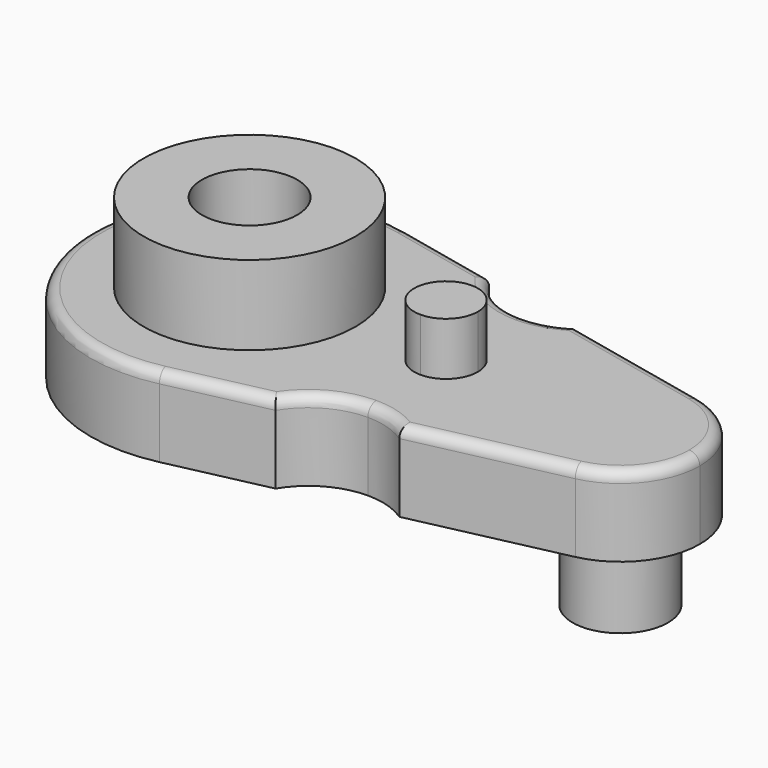
from build123d import *

# Parameters (mm, degrees)
F0_R     = 20
F0_R_2   = 9
F1_DEPTH = 15
F2_DEPTH = 15
F3_DEPTH = 30
F4_R     = 2
F5_DEPTH = 25


with BuildPart() as f1:
    # F0 (on Top) → F1 (new body)
    with BuildSketch(Plane.XY):
        with BuildLine():
            ThreePointArc((-47.0013516621, -29.3031307097), (-30.0541114165, -18.8034951158), (-23.4299230907, 0))
            ThreePointArc((-23.4299230907, 0), (-30.0541114165, 18.8034951158), (-47.0013516621, 29.3031307097))
            ThreePointArc((-47.0013516621, 29.3031307097), (-83.4299230907, 0), (-47.0013516621, -29.3031307097))
        make_face()
        with Locations((-53.4299230907, 0)):
            Circle(F0_R, mode=Mode.SUBTRACT)
        with Locations((-53.4299230907, 0)):
            Circle(F0_R)
        with Locations((-53.4299230907, 0)):
            Circle(F0_R_2, mode=Mode.SUBTRACT)
        with BuildLine():
            ThreePointArc((-47.0013516621, 29.3031307097), (-30.0541114165, 18.8034951158), (-23.4299230907, 0))
            ThreePointArc((-23.4299230907, 0), (-30.0541114165, -18.8034951158), (-47.0013516621, -29.3031307097))
            Line((-47.0013516621, -29.3031307097), (-28.3632161226, -25.2142643425))
            ThreePointArc((-28.3632161226, -25.2142643425), (-23.240927988, -20.2532308731), (-16.3432708876, -18.4443595833))
            Line((-16.3432708876, -18.4443595833), (-16.3432708876, -6))
            ThreePointArc((-16.3432708876, -6), (-22.3432708876, 0), (-16.3432708876, 6))
            Line((-16.3432708876, 6), (-16.3432708876, 18.4443595833))
            ThreePointArc((-16.3432708876, 18.4443595833), (-23.240927988, 20.2532308731), (-28.3632161226, 25.2142643425))
            Line((-28.3632161226, 25.2142643425), (-47.0013516621, 29.3031307097))
        make_face()
        with BuildLine():
            ThreePointArc((-8.4771248069, 20.8516192817), (-12.2301469709, 19.0596414048), (-16.3432708876, 18.4443595833))
            Line((-16.3432708876, 18.4443595833), (-16.3432708876, 6))
            ThreePointArc((-16.3432708876, 6), (-12.1006302005, 4.2426406871), (-10.3432708876, 0))
            ThreePointArc((-10.3432708876, 0), (-12.1006302005, -4.2426406871), (-16.3432708876, -6))
            Line((-16.3432708876, -6), (-16.3432708876, -18.4443595833))
            ThreePointArc((-16.3432708876, -18.4443595833), (-12.2301469709, -19.0596414048), (-8.4771248069, -20.8516192817))
            Line((-8.4771248069, -20.8516192817), (19.7843626236, -14.6515653548))
            ThreePointArc((19.7843626236, -14.6515653548), (1.5700769093, 0), (19.7843626236, 14.6515653548))
            Line((19.7843626236, 14.6515653548), (-8.4771248069, 20.8516192817))
        make_face()
        with BuildLine():
            ThreePointArc((31.5700769093, 0), (28.2579827464, 9.4017475579), (19.7843626236, 14.6515653548))
            ThreePointArc((19.7843626236, 14.6515653548), (1.5700769093, 0), (19.7843626236, -14.6515653548))
            ThreePointArc((19.7843626236, -14.6515653548), (28.2579827464, -9.4017475579), (31.5700769093, 0))
        make_face()
        with Locations((16.5700769093, 0)):
            Circle(F0_R_2, mode=Mode.SUBTRACT)
        with Locations((16.5700769093, 0)):
            Circle(F0_R_2)
    extrude(amount=F1_DEPTH)

    # F0 (on Top) → F2 (join)
    with BuildSketch(Plane.XY):
        with Locations((16.5700769093, 0)):
            Circle(F0_R_2)
    extrude(amount=-F2_DEPTH)

    # F0 (on Top) → F3 (join)
    with BuildSketch(Plane.XY):
        with Locations((-53.4299230907, 0)):
            Circle(F0_R)
        with Locations((-53.4299230907, 0)):
            Circle(F0_R_2, mode=Mode.SUBTRACT)
    extrude(amount=F3_DEPTH)

    # F4
    f4_edges = [f1.edges().sort_by_distance(p)[0] for p in [
        (-83.429923, 0, 15),
        (-19.355194, -18.770858, 15),
        (-19.355194, 18.770858, 15),
        (5.653619, -17.751592, 15),
    ]]
    fillet(f4_edges, radius=F4_R)


with BuildPart() as f5:
    # F0 (on Top) → F5 (new body)
    with BuildSketch(Plane.XY):
        with BuildLine():
            Line((-16.3432708876, -6), (-16.3432708876, 6))
            ThreePointArc((-16.3432708876, 6), (-22.3432708876, 0), (-16.3432708876, -6))
        make_face()
        with BuildLine():
            ThreePointArc((-10.3432708876, 0), (-12.1006302005, 4.2426406871), (-16.3432708876, 6))
            Line((-16.3432708876, 6), (-16.3432708876, -6))
            ThreePointArc((-16.3432708876, -6), (-12.1006302005, -4.2426406871), (-10.3432708876, 0))
        make_face()
    extrude(amount=F5_DEPTH)


solid = Compound([f1.part, f5.part])
